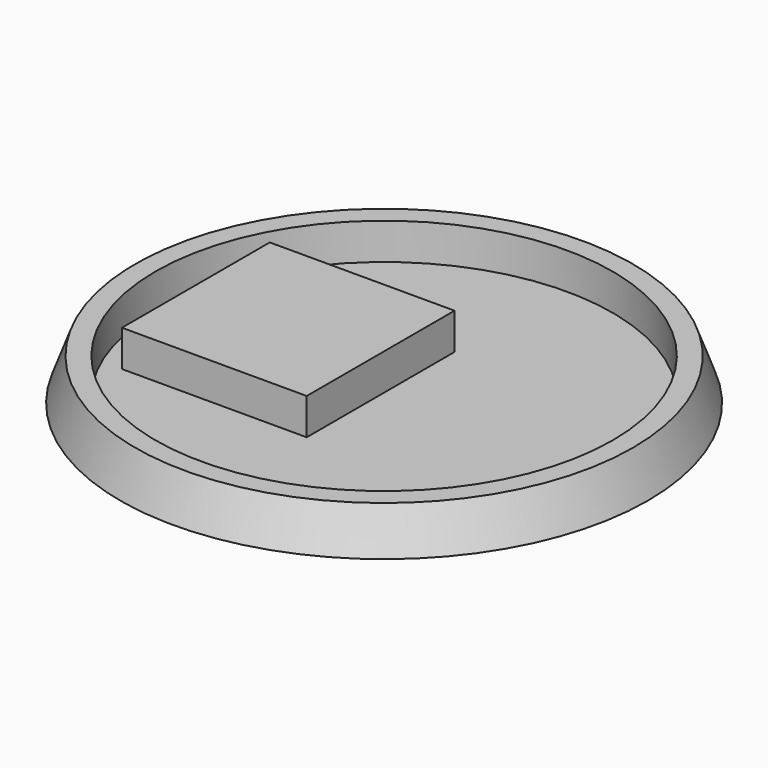
from build123d import *

# Parameters (mm, degrees)
F0_R     = 50.8
F1_DEPTH = 8
F1_TAPER = 20
F2_R     = 44
F3_DEPTH = 7
F4_W     = 35.56
F4_H     = 35.56
F5_DEPTH = 7
F7_R     = 2.158544492
F8_DEPTH = 25.4


with BuildPart() as f1:
    # F0 (on Top) → F1 (new body)
    with BuildSketch(Plane.XY):
        Circle(F0_R)
    extrude(amount=F1_DEPTH, taper=F1_TAPER)

    # F2 (on face) → F3 (cut)
    with BuildSketch(Plane.XY.offset(8)):
        Circle(F2_R)
    extrude(amount=-F3_DEPTH, mode=Mode.SUBTRACT)

    # F7 (on offset) → F8 (cut)
    with BuildSketch(Plane.YZ.offset(40)):
        with Locations((0, 5.6122122332)):
            Circle(F7_R)
    extrude(amount=-F8_DEPTH, mode=Mode.SUBTRACT)


with BuildPart() as f5:
    # F4 (on face) → F5 (new body)
    with BuildSketch(Plane.XY.offset(1)):
        with Locations((-18.7073708512, 0.3267968753)):
            Rectangle(F4_W, F4_H)
    extrude(amount=F5_DEPTH)


solid = Compound([f1.part, f5.part])
